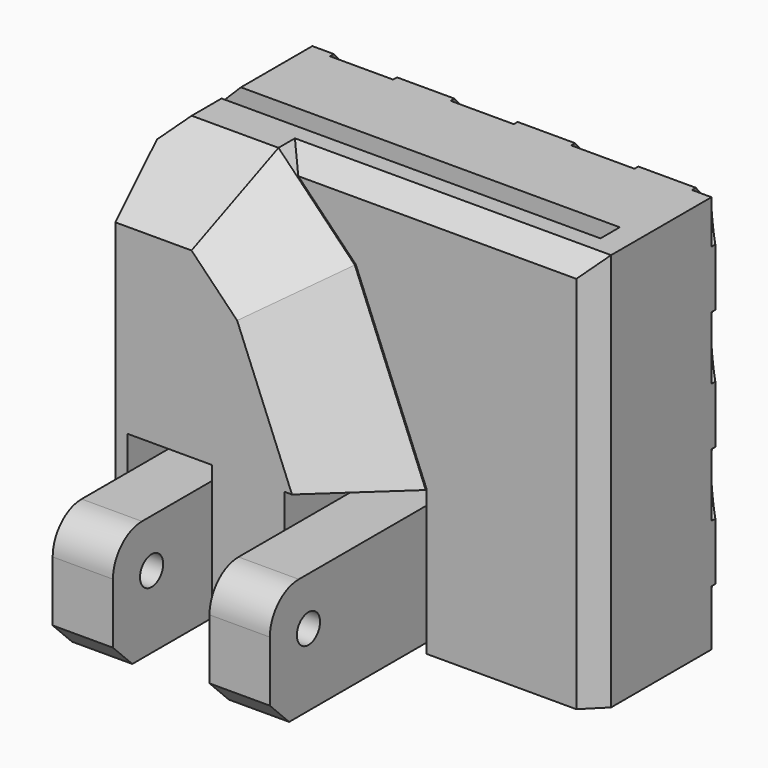
from build123d import *

# Parameters (mm, degrees)
SKETCH_W                 = 35
SKETCH_H                 = 33
PAD_DEPTH                = 20
SKETCH001_W              = 7
SKETCH001_H              = 12
POCKET_DEPTH             = 10
SKETCH004_W              = 36
SKETCH004_H              = 2
POCKET002_DEPTH          = 18.001
POCKET002_DEPTH_BACK     = 15.001
SKETCH002_W              = 5
SKETCH002_H              = 10
PAD001_DEPTH             = 20
SKETCH003_R              = 1.2
POCKET001_DEPTH          = 22.001
POCKET003_DEPTH          = 6
CHAMFER_SIZE             = 5.9
CHAMFER001_SIZE          = 1.6
CHAMFER002_SIZE          = 2
FILLET_R                 = 3
SKETCH010_R              = 2.8
POCKET006_DEPTH          = 2
LINEARPATTERN_COUNT      = 4
LINEARPATTERN_PITCH      = 10
SKETCH012_R              = 3.5
POCKET007_DEPTH          = 8
SKETCH013_W              = 3.523392
SKETCH013_H              = 1.7
SKETCH013_W_2            = 3.89822
PAD003_DEPTH             = 0.4
POCKET008_DEPTH          = 6
CLONE001_PLACEMENT_ANGLE = 90


with BuildPart() as sphere:
    # Sphere → Sphere (revolve)
    with BuildSketch(Plane(origin=(-18, 7, 10), x_dir=(1, 0, 0), z_dir=(0, -1, 0))):
        with BuildLine():
            ThreePointArc((0, -8.3), (8.3, 0), (0, 8.3))
            Line((0, 8.3), (0, -8.3))
        make_face()
    revolve(axis=Axis((-18, 7, 10), (0, 0, 1)))


with BuildPart() as out_socket:
    # Sketch → Pad (new body)
    with BuildSketch(Plane.XY):
        with Locations((-4.5, 1.5)):
            Rectangle(SKETCH_W, SKETCH_H)
    extrude(amount=PAD_DEPTH)

    # Sketch001 (on Face6 of Pad) → Pocket (cut)
    with BuildSketch(Plane.XY.offset(20)):
        with Locations((-17.5, -9)):
            Rectangle(SKETCH001_W, SKETCH001_H)
        with Locations((-4.5, -9)):
            Rectangle(SKETCH001_W, SKETCH001_H)
    extrude(amount=-POCKET_DEPTH, mode=Mode.SUBTRACT)

    # Sketch004 → Pocket002 (cut, two sides)
    with BuildSketch(Plane.XZ) as pocket002_sk:
        with Locations((-7, 10)):
            Rectangle(SKETCH004_W, SKETCH004_H)
    extrude(amount=-POCKET002_DEPTH, mode=Mode.SUBTRACT)
    extrude(pocket002_sk.sketch, amount=POCKET002_DEPTH_BACK, mode=Mode.SUBTRACT)

    # Sketch002 (on Face8 of Pocket002) → Pad001 (join)
    with BuildSketch(Plane.XY.offset(9)):
        with Locations((-17.5, -10)):
            Rectangle(SKETCH002_W, SKETCH002_H)
        with Locations((-4.5, -10)):
            Rectangle(SKETCH002_W, SKETCH002_H)
    extrude(amount=PAD001_DEPTH)

    # Sketch003 → Pocket001 (cut, through all)
    with BuildSketch(Plane.YZ):
        with Locations((-9, 25)):
            Circle(SKETCH003_R)
    extrude(amount=-POCKET001_DEPTH, mode=Mode.SUBTRACT)

    # Sketch005 (on Face4 of Pocket001) → Pocket003 (cut)
    with BuildSketch(Plane.XY.offset(20)):
        Polygon((-6.878414, 11.506697), (-1, -3), (-1, -16.521692), (16.145611, -16.521692), (16.145611, 20.333527), (-18.556482, 20.333527), (-13.204168, 18), align=None)
    extrude(amount=-POCKET003_DEPTH, mode=Mode.SUBTRACT)

    # Chamfer
    chamfer_edges = [out_socket.edges().sort_by_distance(p)[0] for p in [
        (-17.602084, 18, 20),
        (-10.041291, 14.753349, 20),
        (-3.939207, 4.253349, 20),
    ]]
    chamfer(chamfer_edges, length=CHAMFER_SIZE)

    # Chamfer001
    chamfer001_edges = [out_socket.edges().sort_by_distance(p)[0] for p in [
        (-4.5, 18, 0),
        (13, 1.5, 0),
        (-4.5, -15, 0),
        (-22, 1.5, 0),
        (-22, 18, 4.5),
        (-22, -15, 4.5),
        (-22, 18, 12.55),
        (13, 1.5, 14),
        (-0.102084, 18, 14),
    ]]
    chamfer(chamfer001_edges, length=CHAMFER001_SIZE)

    # Chamfer002
    chamfer002_edges = [out_socket.edges().sort_by_distance(p)[0] for p in [
        (-17.5, -15, 29),
        (-4.5, -15, 29),
    ]]
    chamfer(chamfer002_edges, length=CHAMFER002_SIZE)

    # Fillet
    fillet_edges = [out_socket.edges().sort_by_distance(p)[0] for p in [
        (-4.5, -5, 29),
        (-17.5, -5, 29),
    ]]
    fillet(fillet_edges, radius=FILLET_R)

    # Sketch010 → Pocket006 (cut)
    with BuildSketch(Plane.XY):
        with Locations((14, -13)):
            Circle(SKETCH010_R)
        with Locations((4, -13)):
            Circle(SKETCH010_R)
        with Locations((-6, -13)):
            Circle(SKETCH010_R)
        with Locations((-16, -13)):
            Circle(SKETCH010_R)
    pocket006 = extrude(amount=POCKET006_DEPTH, mode=Mode.SUBTRACT)

    # LinearPattern: Pocket006 ×4
    with Locations(*[(0, i * LINEARPATTERN_PITCH, 0) for i in range(1, LINEARPATTERN_COUNT)]):
        add(pocket006, mode=Mode.SUBTRACT)

    # Sketch012 (on Face5 of Pad) → Pocket007 (cut)
    with BuildSketch(Plane(origin=(0, 0, 0), x_dir=(1, 0, 0), z_dir=(0, 0, -1))):
        with Locations((-16, -7)):
            Circle(SKETCH012_R)
    extrude(amount=-POCKET007_DEPTH, mode=Mode.SUBTRACT)

    # Sketch013 (on Face3 of Pad) → Pad003 (join)
    with BuildSketch(Plane.XZ.offset(15)):
        with Locations((-19.82605, 19.15)):
            Rectangle(SKETCH013_W, SKETCH013_H)
        with Locations((-19.451214, 11.85)):
            Rectangle(SKETCH013_W_2, SKETCH013_H)
    extrude(amount=-PAD003_DEPTH)

    # Sketch014 (on Face9 of Pocket) → Pocket008 (cut)
    with BuildSketch(Plane(origin=(-14, 0, 0), x_dir=(0, -1, 0), z_dir=(-1, 0, 0))):
        Polygon((3, 11), (23, 14.52654), (23, 11), align=None)
    extrude(amount=-POCKET008_DEPTH, mode=Mode.SUBTRACT)

    # Cut: cut Sphere
    add(sphere.part, mode=Mode.SUBTRACT)


with BuildPart() as out_socket_1:
    # Clone001 placement: moved
    add(out_socket.part.rotate(Axis((0, 0, 0), (1, 0, 0)), CLONE001_PLACEMENT_ANGLE))


solid = out_socket_1.part
